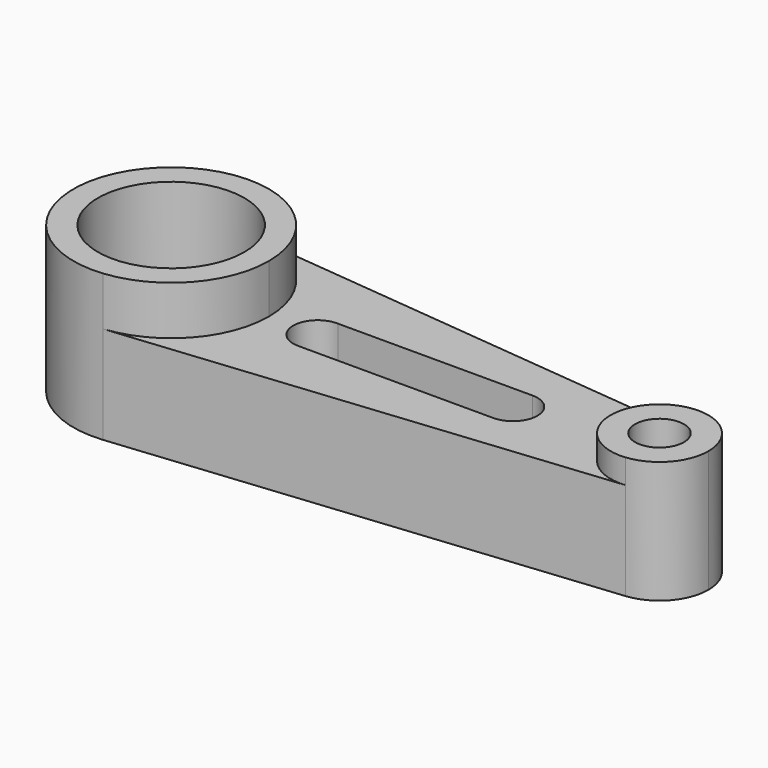
from build123d import *

# Parameters (mm, degrees)
F0_R     = 19.05
F1_DEPTH = 38.1
F0_R_2   = 6.35
F2_DEPTH = 31.75
F3_DEPTH = 25.4


with BuildPart() as f1:
    # F0 (on Top) → F1 (new body)
    with BuildSketch(Plane.XY):
        with BuildLine():
            ThreePointArc((-42.95391, -25.272681), (-26.656766, -17.038838), (-20.09391, 0))
            ThreePointArc((-20.09391, 0), (-26.656766, 17.038838), (-42.95391, 25.272681))
            ThreePointArc((-42.95391, 25.272681), (-70.89391, 0), (-42.95391, -25.272681))
        make_face()
        with Locations((-45.49391, 0)):
            Circle(F0_R, mode=Mode.SUBTRACT)
    extrude(amount=F1_DEPTH)


with BuildPart() as f2:
    # F0 (on Top) → F2 (new body)
    with BuildSketch(Plane.XY):
        with BuildLine():
            ThreePointArc((94.20609, 0), (90.924662, 8.519419), (82.77609, 12.63634))
            ThreePointArc((82.77609, 12.63634), (68.80609, 0), (82.77609, -12.63634))
            ThreePointArc((82.77609, -12.63634), (90.924662, -8.519419), (94.20609, 0))
        make_face()
        with Locations((81.50609, 0)):
            Circle(F0_R_2, mode=Mode.SUBTRACT)
    extrude(amount=F2_DEPTH)


with BuildPart() as f3:
    # F0 (on Top) → F3 (new body)
    with BuildSketch(Plane.XY):
        with BuildLine():
            ThreePointArc((-42.95391, 25.272681), (-26.656766, 17.038838), (-20.09391, 0))
            ThreePointArc((-20.09391, 0), (-26.656766, -17.038838), (-42.95391, -25.272681))
            Line((-42.95391, -25.272681), (82.77609, -12.63634))
            ThreePointArc((82.77609, -12.63634), (68.80609, 0), (82.77609, 12.63634))
            Line((82.77609, 12.63634), (-42.95391, 25.272681))
        make_face()
        with BuildLine():
            ThreePointArc((-7.39391, -6.35), (-13.743209, 0.094378), (-7.205174, 6.347195))
            Line((-7.205174, 6.347195), (43.405738, 6.35))
            ThreePointArc((43.405738, 6.35), (49.75609, 0.000176), (43.40609, -6.35))
            Line((43.40609, -6.35), (-7.39391, -6.35))
        make_face(mode=Mode.SUBTRACT)
    extrude(amount=F3_DEPTH)


solid = Compound([f1.part, f2.part, f3.part])
